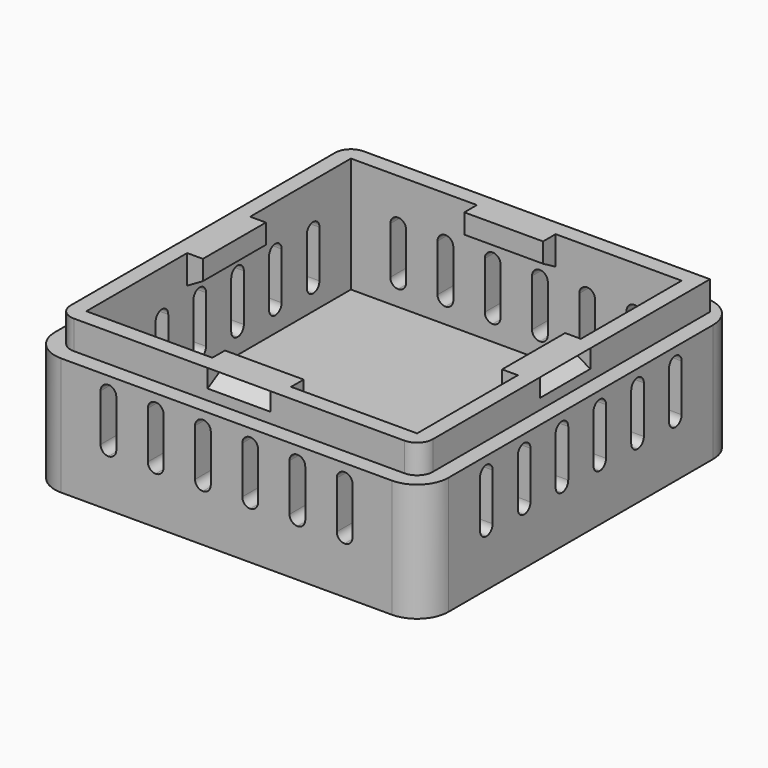
from build123d import *

# Parameters (mm, degrees)
F0_W      = 50
F0_H      = 50
F1_DEPTH  = 20
F2_T      = -4
F3_R      = 4
F5_DEPTH  = 50
F7_DEPTH  = 50.001
F8_W      = 50
F8_H      = 50
F8_W_2    = 46
F8_H_2    = 46
F9_DEPTH  = 5
F10_R     = 2
F12_DEPTH = 5
F14_DEPTH = 4
F16_DEPTH = 5
F18_DEPTH = 4
F19_W     = 46
F19_H     = 46
F20_DEPTH = 1.35


with BuildPart() as f1:
    # F0 (on Top) → F1 (new body)
    with BuildSketch(Plane.XY):
        Rectangle(F0_W, F0_H)
    extrude(amount=F1_DEPTH)

    # F2
    f2_openings = [f1.faces().sort_by_distance(p)[0] for p in [
        (0, 0, 20),
    ]]
    offset(amount=F2_T, openings=f2_openings)

    # F3
    f3_edges = [f1.edges().sort_by_distance(p)[0] for p in [
        (-25, -25, 10),
        (25, -25, 10),
        (25, 25, 10),
        (-25, 25, 10),
    ]]
    fillet(f3_edges, radius=F3_R)

    # F4 (on face) → F5 (cut)
    with BuildSketch(Plane.XZ.offset(25)):
        with BuildLine():
            ThreePointArc((-15, 6), (-14.292893, 6.292893), (-14, 7))
            Line((-14, 7), (-14, 13))
            ThreePointArc((-14, 13), (-14.292893, 13.707107), (-15, 14))
            ThreePointArc((-15, 14), (-15.707107, 13.707107), (-16, 13))
            Line((-16, 13), (-16, 7))
            ThreePointArc((-16, 7), (-15.707107, 6.292893), (-15, 6))
        make_face()
        with BuildLine():
            Line((-10, 13), (-10, 7))
            ThreePointArc((-10, 7), (-9.707107, 6.292893), (-9, 6))
            ThreePointArc((-9, 6), (-8.292893, 6.292893), (-8, 7))
            Line((-8, 7), (-8, 13))
            ThreePointArc((-8, 13), (-8.292893, 13.707107), (-9, 14))
            ThreePointArc((-9, 14), (-9.707107, 13.707107), (-10, 13))
        make_face()
        with BuildLine():
            Line((-4, 13), (-4, 7))
            ThreePointArc((-4, 7), (-3.707107, 6.292893), (-3, 6))
            ThreePointArc((-3, 6), (-2.292893, 6.292893), (-2, 7))
            Line((-2, 7), (-2, 13))
            ThreePointArc((-2, 13), (-2.292893, 13.707107), (-3, 14))
            ThreePointArc((-3, 14), (-3.707107, 13.707107), (-4, 13))
        make_face()
        with BuildLine():
            Line((2, 13), (2, 7))
            ThreePointArc((2, 7), (2.292893, 6.292893), (3, 6))
            ThreePointArc((3, 6), (3.707107, 6.292893), (4, 7))
            Line((4, 7), (4, 13))
            ThreePointArc((4, 13), (3.707107, 13.707107), (3, 14))
            ThreePointArc((3, 14), (2.292893, 13.707107), (2, 13))
        make_face()
        with BuildLine():
            Line((8, 13), (8, 7))
            ThreePointArc((8, 7), (8.292893, 6.292893), (9, 6))
            ThreePointArc((9, 6), (9.707107, 6.292893), (10, 7))
            Line((10, 7), (10, 13))
            ThreePointArc((10, 13), (9.707107, 13.707107), (9, 14))
            ThreePointArc((9, 14), (8.292893, 13.707107), (8, 13))
        make_face()
        with BuildLine():
            ThreePointArc((15, 6), (15.707107, 6.292893), (16, 7))
            Line((16, 7), (16, 13))
            ThreePointArc((16, 13), (15.707107, 13.707107), (15, 14))
            ThreePointArc((15, 14), (14.292893, 13.707107), (14, 13))
            Line((14, 13), (14, 7))
            ThreePointArc((14, 7), (14.292893, 6.292893), (15, 6))
        make_face()
    extrude(amount=-F5_DEPTH, mode=Mode.SUBTRACT)

    # F6 (on face) → F7 (cut, through all)
    with BuildSketch(Plane.YZ.offset(25)):
        with BuildLine():
            ThreePointArc((-15, 6), (-14.292893, 6.292893), (-14, 7))
            Line((-14, 7), (-14, 13))
            ThreePointArc((-14, 13), (-14.292893, 13.707107), (-15, 14))
            ThreePointArc((-15, 14), (-15.707107, 13.707107), (-16, 13))
            Line((-16, 13), (-16, 7))
            ThreePointArc((-16, 7), (-15.707107, 6.292893), (-15, 6))
        make_face()
        with BuildLine():
            Line((-10, 13), (-10, 7))
            ThreePointArc((-10, 7), (-9.707107, 6.292893), (-9, 6))
            ThreePointArc((-9, 6), (-8.292893, 6.292893), (-8, 7))
            Line((-8, 7), (-8, 13))
            ThreePointArc((-8, 13), (-8.292893, 13.707107), (-9, 14))
            ThreePointArc((-9, 14), (-9.707107, 13.707107), (-10, 13))
        make_face()
        with BuildLine():
            Line((-4, 13), (-4, 7))
            ThreePointArc((-4, 7), (-3.707107, 6.292893), (-3, 6))
            ThreePointArc((-3, 6), (-2.292893, 6.292893), (-2, 7))
            Line((-2, 7), (-2, 13))
            ThreePointArc((-2, 13), (-2.292893, 13.707107), (-3, 14))
            ThreePointArc((-3, 14), (-3.707107, 13.707107), (-4, 13))
        make_face()
        with BuildLine():
            ThreePointArc((9, 6), (9.707107, 6.292893), (10, 7))
            Line((10, 7), (10, 13))
            ThreePointArc((10, 13), (9.707107, 13.707107), (9, 14))
            ThreePointArc((9, 14), (8.292893, 13.707107), (8, 13))
            Line((8, 13), (8, 7))
            ThreePointArc((8, 7), (8.292893, 6.292893), (9, 6))
        make_face()
        with BuildLine():
            ThreePointArc((15, 6), (15.707107, 6.292893), (16, 7))
            Line((16, 7), (16, 13))
            ThreePointArc((16, 13), (15.707107, 13.707107), (15, 14))
            ThreePointArc((15, 14), (14.292893, 13.707107), (14, 13))
            Line((14, 13), (14, 7))
            ThreePointArc((14, 7), (14.292893, 6.292893), (15, 6))
        make_face()
        with BuildLine():
            ThreePointArc((3, 14), (2.292893, 13.707107), (2, 13))
            Line((2, 13), (2, 7))
            ThreePointArc((2, 7), (2.292893, 6.292893), (3, 6))
            ThreePointArc((3, 6), (3.707107, 6.292893), (4, 7))
            Line((4, 7), (4, 13))
            ThreePointArc((4, 13), (3.707107, 13.707107), (3, 14))
        make_face()
    extrude(amount=-F7_DEPTH, mode=Mode.SUBTRACT)

    # F8 (on face) → F9 (cut)
    with BuildSketch(Plane.XY.offset(20)):
        Rectangle(F8_W, F8_H)
        Rectangle(F8_W_2, F8_H_2, mode=Mode.SUBTRACT)
    extrude(amount=-F9_DEPTH, mode=Mode.SUBTRACT)

    # F10
    f10_edges = [f1.edges().sort_by_distance(p)[0] for p in [
        (-23, 23, 17.5),
        (-23, -23, 17.5),
        (23, -23, 17.5),
    ]]
    fillet(f10_edges, radius=F10_R)

    # F11 (on Right) → F12 (join, symmetric)
    with BuildSketch(Plane.YZ):
        Polygon((21, 15), (21, 20), (19, 18.845299), (19, 16.154701), align=None)
        Polygon((-19, 18.845299), (-21, 20), (-21, 15), (-19, 16.154701), align=None)
    extrude(amount=F12_DEPTH, both=True)

    # F13 (on Right) → F14 (cut, symmetric)
    with BuildSketch(Plane.YZ):
        Polygon((23, 16.345299), (23, 18.654701), (21, 17.5), align=None)
        Polygon((-21, 17.5), (-23, 18.654701), (-23, 16.345299), align=None)
    extrude(amount=F14_DEPTH, both=True, mode=Mode.SUBTRACT)

    # F15 (on Front) → F16 (join, symmetric)
    with BuildSketch(Plane.XZ):
        Polygon((21, 15), (21, 20), (19, 18.845299), (19, 16.154701), align=None)
        Polygon((-19, 18.845299), (-21, 20), (-21, 15), (-19, 16.154701), align=None)
    extrude(amount=F16_DEPTH, both=True)

    # F17 (on Front) → F18 (cut, symmetric)
    with BuildSketch(Plane.XZ):
        Polygon((23, 16.345299), (23, 18.654701), (21, 17.5), align=None)
        Polygon((-21, 17.5), (-23, 18.654701), (-23, 16.345299), align=None)
    extrude(amount=F18_DEPTH, both=True, mode=Mode.SUBTRACT)

    # F19 (on face) → F20 (cut)
    with BuildSketch(Plane.XY.offset(20)):
        Rectangle(F19_W, F19_H)
    extrude(amount=-F20_DEPTH, mode=Mode.SUBTRACT)


solid = f1.part
